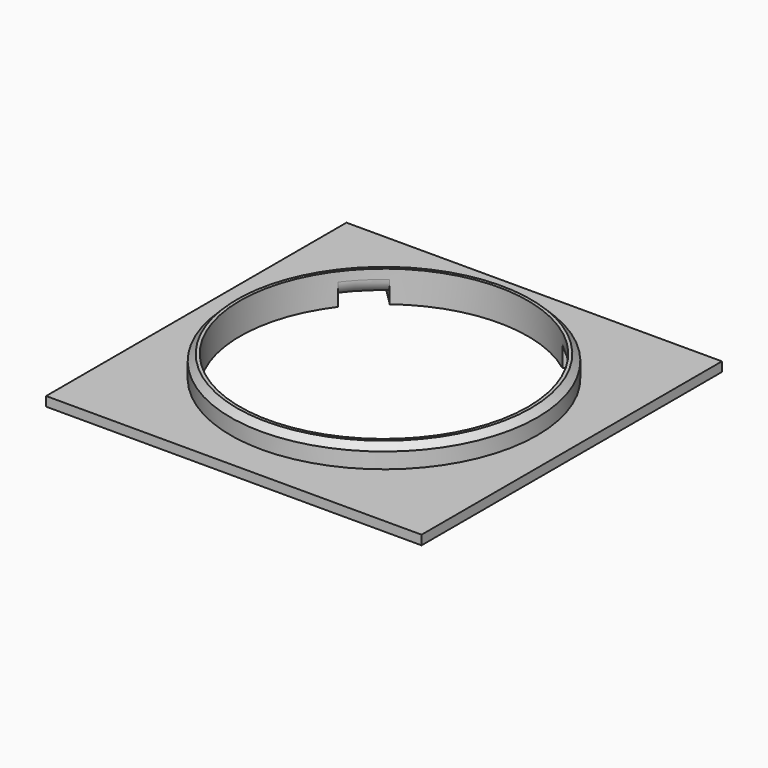
from build123d import *

# Parameters (mm, degrees)
F0_R     = 49
F0_R_2   = 46
F1_DEPTH = 10
F0_W     = 120
F0_H     = 120
F2_DEPTH = 3
F3_SIZE  = 2
F5_DEPTH = 2
F6_R     = 5


with BuildPart() as f1:
    # F0 (on Top) → F1 (new body)
    with BuildSketch(Plane.XY):
        Circle(F0_R)
        Circle(F0_R_2, mode=Mode.SUBTRACT)
    extrude(amount=F1_DEPTH)

    # F0 (on Top) → F2 (join)
    with BuildSketch(Plane.XY):
        Rectangle(F0_W, F0_H)
        Circle(F0_R, mode=Mode.SUBTRACT)
    extrude(amount=F2_DEPTH)

    # F3
    f3_edges = [f1.edges().sort_by_distance(p)[0] for p in [
        (-49, 0, 10),
    ]]
    chamfer(f3_edges, length=F3_SIZE)

    # F4 (on face) → F5 (cut)
    with BuildSketch(Plane(origin=(0, 0, 0), x_dir=(1, 0, 0), z_dir=(0, 0, -1))):
        Polygon((-27.604349, 36.796738), (-41.746485, 50.938873), (-50.938873, 41.746485), (-36.796738, 27.604349), align=None)
        Polygon((41.746485, -50.938873), (50.938873, -41.746485), (36.796738, -27.604349), (27.604349, -36.796738), align=None)
        Polygon((50.938873, 41.746485), (41.746485, 50.938873), (27.604349, 36.796738), (36.796738, 27.604349), align=None)
        Polygon((-36.796738, -27.604349), (-50.938873, -41.746485), (-41.746485, -50.938873), (-27.604349, -36.796738), align=None)
    extrude(amount=-F5_DEPTH, mode=Mode.SUBTRACT)

    # F6
    f6_edges = [f1.edges().sort_by_distance(p)[0] for p in [
        (-32.526912, -32.526912, 2),
        (32.526912, -32.526912, 2),
        (32.526912, 32.526912, 2),
        (-32.526912, 32.526912, 2),
    ]]
    fillet(f6_edges, radius=F6_R)


solid = f1.part
